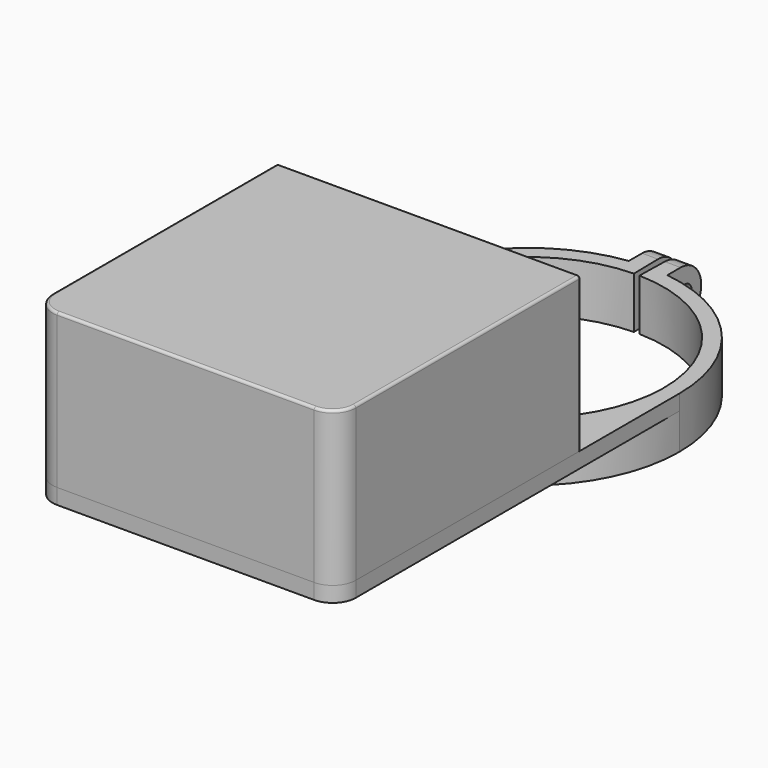
from build123d import *

# Parameters (mm, degrees)
SKETCH_R             = 1.7
PAD_DEPTH            = 10
POCKET_DEPTH         = 7.001
POCKET001_DEPTH      = 0.5
SKETCH003_W          = 6
SKETCH003_H          = 5
POCKET002_DEPTH      = 22.101
SKETCH011_R          = 1.7
POCKET007_DEPTH      = 6
POCKET007_DEPTH_BACK = 5
PAD001_DEPTH         = 30
POCKET004_DEPTH      = 28
SKETCH007_R          = 2.05
SKETCH007_R_2        = 1.3
SKETCH007_R_3        = 2.6
SKETCH007_R_4        = 1.6
PAD002_DEPTH         = 8
POCKET005_DEPTH      = 5
POCKET006_DEPTH      = 0.4
SKETCH010_R          = 2.15
PAD003_DEPTH         = 4
SKETCH012_W          = 30
SKETCH012_H          = 12
POCKET008_DEPTH      = 2
FILLET_R             = 0.5


with BuildPart() as base:
    # Sketch → Pad (new body)
    with BuildSketch(Plane.XY):
        with BuildLine():
            Line((-25, -83.2), (25, -83.2))
            ThreePointArc((25, -83.2), (28.1819805153, -81.8819805153), (29.5, -78.7))
            Line((29.5, -78.7), (29.5, 0))
            ThreePointArc((29.5, 0), (22.1456237012, 19.4890058978), (3.74939994, 29.2607587067))
            Line((3.74939994, 29.2607587067), (3.74939994, 37.4324992498))
            Line((3.74939994, 37.4324992498), (0.75, 37.4924992498))
            Line((0.75, 37.4924992498), (0.53, 26.4946994699))
            ThreePointArc((-0.53, 26.4946994699), (0, -26.5), (0.53, 26.4946994699))
            Line((-0.53, 26.4946994699), (-0.75, 37.4924992498))
            Line((-0.75, 37.4924992498), (-3.74939994, 37.4324992498))
            Line((-3.74939994, 37.4324992498), (-3.74939994, 29.2607587067))
            ThreePointArc((-3.74939994, 29.2607587067), (-22.1456237012, 19.4890058978), (-29.5, 0))
            Line((-29.5, 0), (-29.5, -78.7))
            ThreePointArc((-29.5, -78.7), (-28.1819805153, -81.8819805153), (-25, -83.2))
        make_face()
        with Locations((-25, -78.7)):
            Circle(SKETCH_R, mode=Mode.SUBTRACT)
        with Locations((25, -78.7)):
            Circle(SKETCH_R, mode=Mode.SUBTRACT)
        with Locations((-25, -35.5)):
            Circle(SKETCH_R, mode=Mode.SUBTRACT)
        with Locations((25, -29)):
            Circle(SKETCH_R, mode=Mode.SUBTRACT)
        with BuildLine():
            Line((-7.4, -63.2), (7.4, -63.2))
            Line((7.4, -63.2), (7.4, -58.5095194943))
            Line((9.4, -58.5095194943), (7.4, -58.5095194943))
            Line((9.4, -58.5095194943), (9.4, -56.5095194943))
            ThreePointArc((9.4, -56.5095194943), (12.8714801014, -51.7563008956), (14.1, -46))
            Line((14.1, -44), (14.1, -46))
            ThreePointArc((14.1, -44), (0, -29.9), (-14.1, -44))
            Line((-14.1, -46), (-14.1, -44))
            ThreePointArc((-14.1, -46), (-12.8714801014, -51.7563008955), (-9.4, -56.5095194943))
            Line((-9.4, -58.5095194943), (-9.4, -56.5095194943))
            Line((-7.4, -58.5095194943), (-9.4, -58.5095194943))
            Line((-7.4, -63.2), (-7.4, -58.5095194943))
        make_face(mode=Mode.SUBTRACT)
        with BuildLine():
            ThreePointArc((19.6, -44), (17.5, -41.9), (15.4, -44))
            Line((15.4, -44), (15.4, -46))
            ThreePointArc((15.4, -46), (17.5, -48.1), (19.6, -46))
            Line((19.6, -46), (19.6, -44))
        make_face(mode=Mode.SUBTRACT)
        with BuildLine():
            ThreePointArc((-15.4, -44), (-17.5, -41.9), (-19.6, -44))
            Line((-19.6, -44), (-19.6, -46))
            ThreePointArc((-19.6, -46), (-17.5, -48.1), (-15.4, -46))
            Line((-15.4, -46), (-15.4, -44))
        make_face(mode=Mode.SUBTRACT)
    extrude(amount=-PAD_DEPTH)

    # Sketch001 → Pocket (cut, through all)
    with BuildSketch(Plane.XY.offset(-3)):
        with BuildLine():
            ThreePointArc((-29.5, 0), (0, -29.5), (29.5, 0))
            Line((29.5, -78.7), (29.5, 0))
            ThreePointArc((25, -83.2), (28.1819805153, -81.8819805153), (29.5, -78.7))
            Line((-25.0000165839, -83.2), (25, -83.2))
            ThreePointArc((-29.5, -78.7), (-28.1819863786, -81.881974652), (-25.0000165839, -83.2))
            Line((-29.5, 0), (-29.5, -78.7))
        make_face()
    extrude(amount=-POCKET_DEPTH, mode=Mode.SUBTRACT)

    # Sketch002 (on Face4 of Pocket) → Pocket001 (cut)
    with BuildSketch(Plane.XY):
        with BuildLine():
            ThreePointArc((17.5, -49.5), (22, -45), (17.5, -40.5))
            Line((17.5, -40.5), (-17.5, -40.5))
            ThreePointArc((-17.5, -40.5), (-22, -45), (-17.5, -49.5))
            Line((-17.5, -49.5), (17.5, -49.5))
        make_face()
    extrude(amount=-POCKET001_DEPTH, mode=Mode.SUBTRACT)

    # Sketch003 → Pocket002 (cut, through all)
    with BuildSketch(Plane.YZ.offset(-7.4)):
        with Locations((0, -64.5)):
            Rectangle(SKETCH003_W, SKETCH003_H)
    extrude(amount=-POCKET002_DEPTH, mode=Mode.SUBTRACT)

    # Sketch011 → Pocket007 (cut, two sides)
    with BuildSketch(Plane.YZ) as pocket007_sk:
        with Locations((33.4924992498, -5)):
            Circle(SKETCH011_R)
        with BuildLine():
            Line((32.4924992498, 1.333875), (32.4924992498, 0))
            ThreePointArc((32.9189089943, -10), (37.4970428172, -4.7956926491), (32.4924992498, 0))
            Line((32.9189089943, -10), (32.809612, -11.693628))
            Line((32.809612, -11.693628), (39.610278, -11.693628))
            Line((39.610278, -11.693628), (40.243954, 1.333875))
            Line((40.243954, 1.333875), (32.4924992498, 1.333875))
        make_face()
    extrude(amount=-POCKET007_DEPTH, mode=Mode.SUBTRACT)
    extrude(pocket007_sk.sketch, amount=POCKET007_DEPTH_BACK, mode=Mode.SUBTRACT)


with BuildPart() as body001:
    # Sketch005 → Pad001 (new body)
    with BuildSketch(Plane.XY):
        with BuildLine():
            Line((29.5, -24), (-29.5, -24))
            Line((-29.5, -24), (-29.5, -78.7))
            ThreePointArc((-29.5, -78.7), (-28.1819744687, -81.881986562), (-24.9999828975, -83.2))
            Line((-24.9999828975, -83.2), (25, -83.2))
            ThreePointArc((25, -83.2), (28.1819798244, -81.8819812063), (29.5, -78.7000019544))
            Line((29.5, -78.7000019544), (29.5, -24))
        make_face()
    extrude(amount=PAD001_DEPTH)

    # Sketch006 (on Face7 of Pad001) → Pocket004 (cut)
    with BuildSketch(Plane(origin=(0, 0, 0), x_dir=(1, 0, 0), z_dir=(0, 0, -1))):
        with BuildLine():
            Line((-27.5, 26), (-27.5, 78.6999828975))
            ThreePointArc((-24.9999828975, 81.2), (-26.7677619438, 80.4677619438), (-27.5, 78.6999828975))
            Line((-24.9999828975, 81.2), (25, 81.1999828975))
            ThreePointArc((27.5, 78.6999828975), (26.767766953, 80.4677498505), (25, 81.1999828975))
            Line((27.5, 78.6999828975), (27.5, 26))
            Line((27.5, 26), (-27.5, 26))
        make_face()
    extrude(amount=-POCKET004_DEPTH, mode=Mode.SUBTRACT)

    # Sketch007 (on Face15 of Pocket004) → Pad002 (join)
    with BuildSketch(Plane(origin=(0, 0, 28), x_dir=(1, 0, 0), z_dir=(0, 0, -1))):
        with Locations((-25.8, 27.7)):
            Circle(SKETCH007_R)
        with Locations((-25.8, 27.7)):
            Circle(SKETCH007_R_2, mode=Mode.SUBTRACT)
        with Locations((14.84, 27.7)):
            Circle(SKETCH007_R)
        with Locations((14.84, 27.7)):
            Circle(SKETCH007_R_2, mode=Mode.SUBTRACT)
        with Locations((-25.8, 42.94)):
            Circle(SKETCH007_R)
        with Locations((-25.8, 42.94)):
            Circle(SKETCH007_R_2, mode=Mode.SUBTRACT)
        with Locations((14.84, 42.94)):
            Circle(SKETCH007_R)
        with Locations((14.84, 42.94)):
            Circle(SKETCH007_R_2, mode=Mode.SUBTRACT)
        with Locations((-15, 76.2)):
            Circle(SKETCH007_R_3)
        with Locations((-15, 76.2)):
            Circle(SKETCH007_R_4, mode=Mode.SUBTRACT)
        with Locations((15, 76.2)):
            Circle(SKETCH007_R_3)
        with Locations((15, 76.2)):
            Circle(SKETCH007_R_4, mode=Mode.SUBTRACT)
        with Locations((15, 50.2)):
            Circle(SKETCH007_R_3)
        with Locations((15, 50.2)):
            Circle(SKETCH007_R_4, mode=Mode.SUBTRACT)
        with Locations((-15, 50.2)):
            Circle(SKETCH007_R_3)
        with Locations((-15, 50.2)):
            Circle(SKETCH007_R_4, mode=Mode.SUBTRACT)
    extrude(amount=PAD002_DEPTH)

    # Sketch008 (on Face9 of Pad002) → Pocket005 (cut)
    with BuildSketch(Plane.YZ.offset(-27.5)):
        with BuildLine():
            Line((-32.3456439237, 18.2), (-38.2943560763, 18.2))
            ThreePointArc((-38.2943560763, 18.2), (-40.2943560763, 16.2), (-38.2943560763, 14.2))
            Line((-38.2943560763, 14.2), (-32.3456439237, 14.2))
            ThreePointArc((-32.3456439237, 14.2), (-30.3456439237, 16.2), (-32.3456439237, 18.2))
        make_face()
    extrude(amount=-POCKET005_DEPTH, mode=Mode.SUBTRACT)

    # Sketch009 (on Face3 of Pocket005) → Pocket006 (cut)
    with BuildSketch(Plane(origin=(-29.5, 0, 0), x_dir=(0, -1, 0), z_dir=(-1, 0, 0))):
        with BuildLine():
            Line((29.8456439237, 19.7), (40.7943560674, 19.7))
            ThreePointArc((41.7943560763, 18.699999963), (41.5014628674, 19.4071067712), (40.7943560674, 19.7))
            Line((41.7943560763, 18.699999963), (41.7943560763, 13.7))
            ThreePointArc((40.7943560763, 12.7), (41.5014628574, 12.9928932188), (41.7943560763, 13.7))
            Line((40.7943560763, 12.7), (29.8456439237, 12.7))
            ThreePointArc((28.8456439237, 13.7), (29.1385371426, 12.9928932188), (29.8456439237, 12.7))
            Line((28.8456439237, 18.7000000356), (28.8456439237, 13.7))
            ThreePointArc((29.8456439237, 19.7), (29.1385371551, 19.4071067938), (28.8456439237, 18.7000000356))
        make_face()
    extrude(amount=-POCKET006_DEPTH, mode=Mode.SUBTRACT)

    # Sketch010 → Pad003 (join)
    with BuildSketch(Plane.XY):
        with BuildLine():
            Line((20.75, -29), (20.75, -25.5))
            Line((20.75, -25.5), (28.5, -25.5))
            Line((28.5, -25.5), (28.5, -33.25))
            Line((28.5, -33.25), (25, -33.25))
            ThreePointArc((20.75, -29), (21.99479618, -32.00520382), (25, -33.25))
        make_face()
        with Locations((25, -29)):
            Circle(SKETCH010_R, mode=Mode.SUBTRACT)
        with BuildLine():
            ThreePointArc((-25, -39.75), (-20.75, -35.5), (-25, -31.25))
            Line((-25, -31.25), (-28.78, -31.25))
            Line((-28.78, -31.25), (-28.78, -39.75))
            Line((-28.78, -39.75), (-25, -39.75))
        make_face()
        with Locations((-25, -35.5)):
            Circle(SKETCH010_R, mode=Mode.SUBTRACT)
        with BuildLine():
            ThreePointArc((-20.75, -78.7), (-21.99479618, -75.69479618), (-25, -74.45))
            Line((-25, -74.45), (-28.76, -74.45))
            Line((-28.76, -74.45), (-28.76, -78.7))
            ThreePointArc((-28.76, -78.7), (-27.6587214973, -81.3587214973), (-25, -82.46))
            Line((-25, -82.46), (-20.75, -82.46))
            Line((-20.75, -82.46), (-20.75, -78.7))
        make_face()
        with Locations((-25, -78.7)):
            Circle(SKETCH010_R, mode=Mode.SUBTRACT)
        with BuildLine():
            ThreePointArc((25, -74.45), (21.99479618, -75.69479618), (20.75, -78.7))
            Line((20.75, -78.7), (20.75, -82.11))
            Line((20.75, -82.11), (25, -82.11))
            ThreePointArc((25, -82.11), (27.4112341238, -81.1112341238), (28.4099999998, -78.7))
            Line((28.4099999998, -78.7), (28.4099999998, -74.45))
            Line((28.4099999998, -74.45), (25, -74.45))
        make_face()
        with Locations((25, -78.7)):
            Circle(SKETCH010_R, mode=Mode.SUBTRACT)
    extrude(amount=PAD003_DEPTH)

    # Sketch012 (on Face19 of Pad003) → Pocket008 (cut)
    with BuildSketch(Plane(origin=(0, -24, 0), x_dir=(-1, 0, 0), z_dir=(0, 1, 0))):
        with Locations((0, 6)):
            Rectangle(SKETCH012_W, SKETCH012_H)
    extrude(amount=-POCKET008_DEPTH, mode=Mode.SUBTRACT)

    # Fillet
    fillet_edges = [body001.edges().sort_by_distance(p)[0] for p in [
        (9e-06, -83.2, 30),
        (28.18198, -81.881981, 30),
        (29.5, -51.350001, 30),
        (0, -24, 30),
        (-29.5, -51.35, 30),
        (-28.181974, -81.881987, 30),
        (29.5, -24, 15),
        (-29.5, -24, 15),
    ]]
    fillet(fillet_edges, radius=FILLET_R)


solid = Compound([base.part, body001.part])
